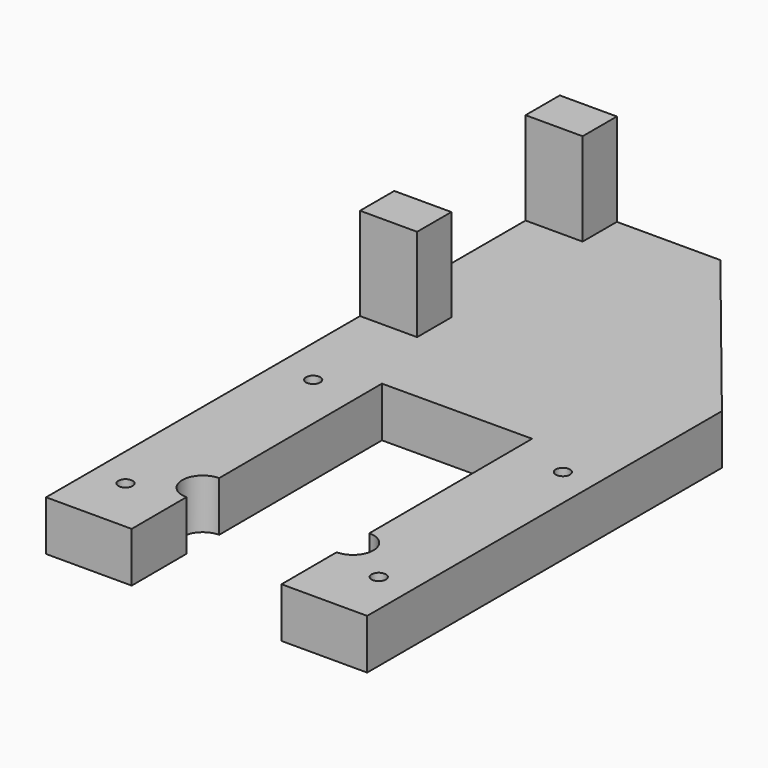
from build123d import *

# Parameters (mm, degrees)
F0_W     = 8
F0_H     = 6
F1_DEPTH = 20
F2_DEPTH = 20
F3_DEPTH = 7
F4_D     = 2
F5_D     = 5.75


with BuildPart() as f1:
    # F0 (on Top) → F1 (new body)
    with BuildSketch(Plane.XY):
        with Locations((-18.5, 42)):
            Rectangle(F0_W, F0_H)
    extrude(amount=F1_DEPTH)


with BuildPart() as f2:
    # F0 (on Top) → F2 (new body)
    with BuildSketch(Plane.XY):
        with Locations((-18.5, 13)):
            Rectangle(F0_W, F0_H)
    extrude(amount=F2_DEPTH)


with BuildPart() as f3:
    # F0 (on Top) → F3 (new body)
    with BuildSketch(Plane.XY):
        Polygon((10.5, -45), (22.5, -45), (22.5, 17.153987661), (0, 45), (-14.5, 45), (-14.5, 39), (-22.5, 39), (-22.5, 16), (-14.5, 16), (-14.5, 10), (-22.5, 10), (-22.5, -45), (-10.5000890097, -45), (-10.6281967604, -1.0001864958), (10.3717142302, -0.9390441602), align=None)
    extrude(amount=F3_DEPTH)

    # F4 (through all)
    with Locations(Plane(origin=(0, 0, 0), x_dir=(1, 0, 0), z_dir=(0, 0, -1))):
        with Locations((-17.0669870824, 5), (-17.7734121563, 37), (17.7265878437, 37), (17.9330129176, 5)):
            Hole(F4_D / 2)

    # F5 (through all)
    with Locations(Plane(origin=(0, 0, 0), x_dir=(1, 0, 0), z_dir=(0, 0, -1))):
        with Locations((-10.5364832571, 32.5000529818), (10.4634277335, 32.4389106462)):
            Hole(F5_D / 2)


solid = Compound([f1.part, f2.part, f3.part])
